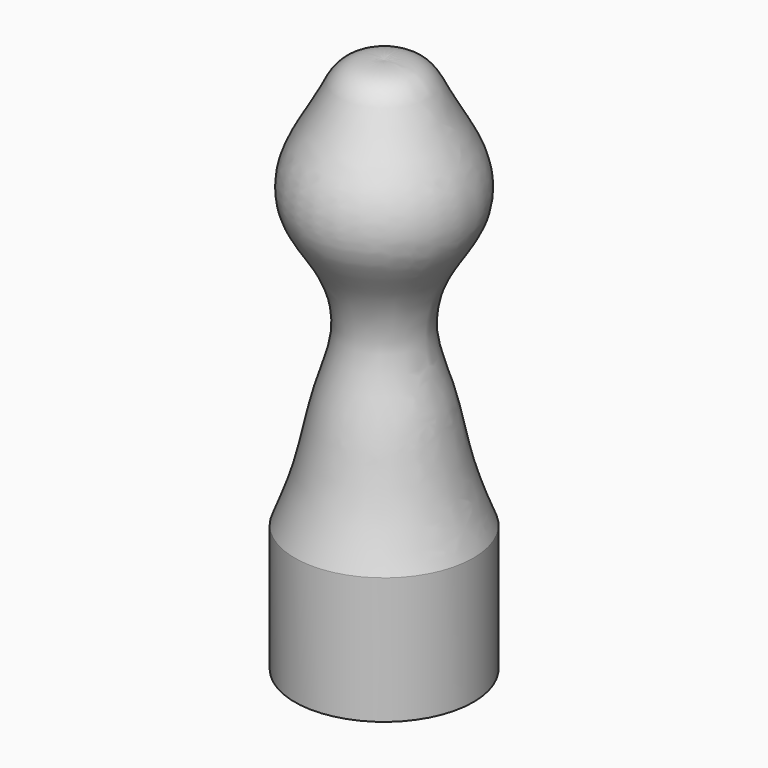
from build123d import *


with BuildPart() as f1:
    # F0 (on Front) → F1 (revolve)
    with BuildSketch(Plane.XZ):
        with BuildLine():
            Line((0, -43.4320554115), (15, -43.4320554115))
            Line((15, -43.4320554115), (15, -22.1365820616))
            add(Edge.make_bspline(
                [(0, 46.5679445885), (6.2846266665, 47.3746880889), (8.4239065, 40.8512767071), (14.4463100433, 32.4085909349), (14.5930779541, 23.429057826), (8.2992321263, 16.138980055), (5.957472608, 6.601407641), (9.6760557566, -2.0903367349), (11.5049420508, -13.2726956634), (13.8692601534, -19.2683212192), (15, -22.1365820616)],
                knots=[0, 0, 0, 0, 0.1309209152, 0.2587630406, 0.3732959745, 0.496212332, 0.6182325217, 0.7407032513, 0.875963078, 1, 1, 1, 1], degree=3))
            Line((0, 46.5679445885), (0, -43.4320554115))
        make_face()
    revolve(axis=Axis((0, 0, 1.5679445885), (0, 0, -1)))


solid = f1.part
